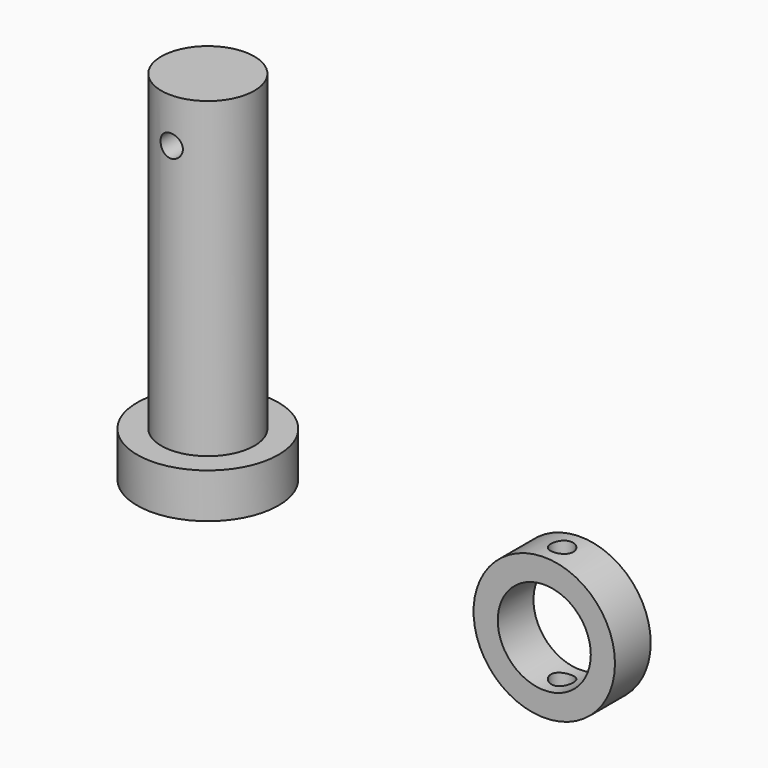
from build123d import *

# Parameters (mm, degrees)
F0_R     = 12.5
F1_DEPTH = 96
F0_R_2   = 19
F2_DEPTH = 12
F3_R     = 19
F3_R_2   = 12.5
F4_DEPTH = 12
F5_R     = 3
F6_DEPTH = 12.5
F7_R     = 3
F8_DEPTH = 36.2


with BuildPart() as f1:
    # F0 (on Top) → F1 (new body)
    with BuildSketch(Plane.XY):
        Circle(F0_R)
    extrude(amount=F1_DEPTH)

    # F0 (on Top) → F2 (join)
    with BuildSketch(Plane.XY):
        Circle(F0_R_2)
        Circle(F0_R, mode=Mode.SUBTRACT)
    extrude(amount=F2_DEPTH)

    # F5 (on Front) → F6 (cut, symmetric)
    with BuildSketch(Plane.XZ):
        with Locations((0, 84)):
            Circle(F5_R)
    extrude(amount=F6_DEPTH, both=True, mode=Mode.SUBTRACT)


with BuildPart() as f4:
    # F3 (on Front) → F4 (new body)
    with BuildSketch(Plane.XZ):
        with Locations((100, 0)):
            Circle(F3_R)
        with Locations((100, 0)):
            Circle(F3_R_2, mode=Mode.SUBTRACT)
    extrude(amount=F4_DEPTH)

    # F7 (on Top) → F8 (cut, symmetric)
    with BuildSketch(Plane.XY):
        with Locations((100, -6)):
            Circle(F7_R)
    extrude(amount=F8_DEPTH, both=True, mode=Mode.SUBTRACT)


solid = Compound([f1.part, f4.part])
